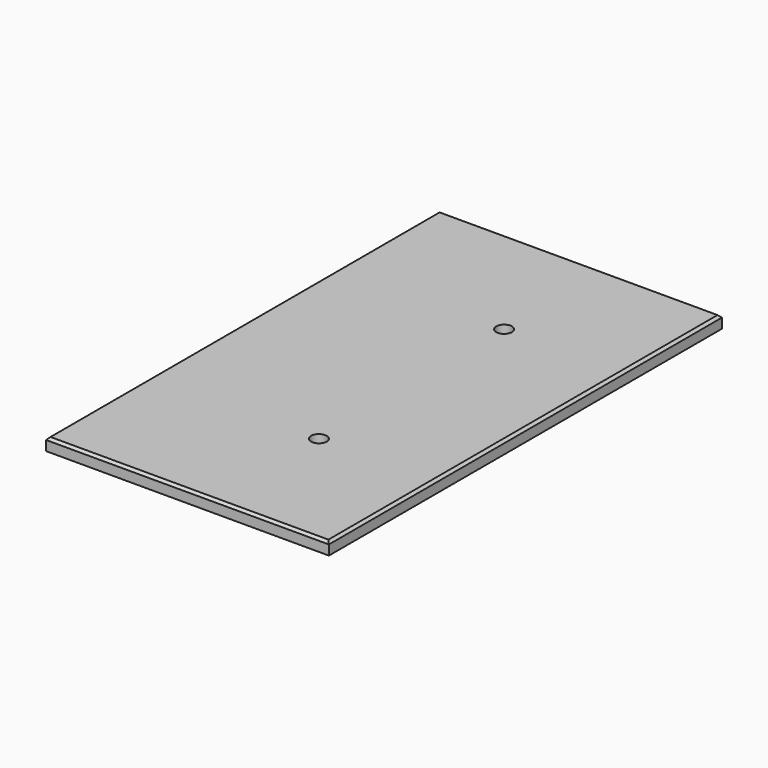
from build123d import *

# Parameters (mm, degrees)
F0_W     = 575.685959
F0_H     = 1000
F1_DEPTH = 25
F3_SIZE  = 5
F4_SIZE  = 5
F5_SIZE  = 5
F6_SIZE  = 5
F8_D     = 32


with BuildPart() as f1:
    # F0 (on Top) → F1 (new body)
    with BuildSketch(Plane.XY):
        with Locations((16.41995, 372.970969)):
            Rectangle(F0_W, F0_H)
    extrude(amount=F1_DEPTH)

    # F3
    f3_edges = [f1.edges().sort_by_distance(p)[0] for p in [
        (16.419951, -127.029031, 25),
    ]]
    chamfer(f3_edges, length=F3_SIZE)

    # F4
    f4_edges = [f1.edges().sort_by_distance(p)[0] for p in [
        (304.26293, 375.470969, 25),
    ]]
    chamfer(f4_edges, length=F4_SIZE)

    # F5
    f5_edges = [f1.edges().sort_by_distance(p)[0] for p in [
        (-271.423029, 375.470969, 25),
    ]]
    chamfer(f5_edges, length=F5_SIZE)

    # F6
    f6_edges = [f1.edges().sort_by_distance(p)[0] for p in [
        (16.419951, 872.970969, 25),
    ]]
    chamfer(f6_edges, length=F6_SIZE)

    # F8 (through all)
    with Locations(Plane.XY.offset(25)):
        with Locations((64.978719, 617.952704), (70.463941, 139.750063)):
            Hole(F8_D / 2)


solid = f1.part
